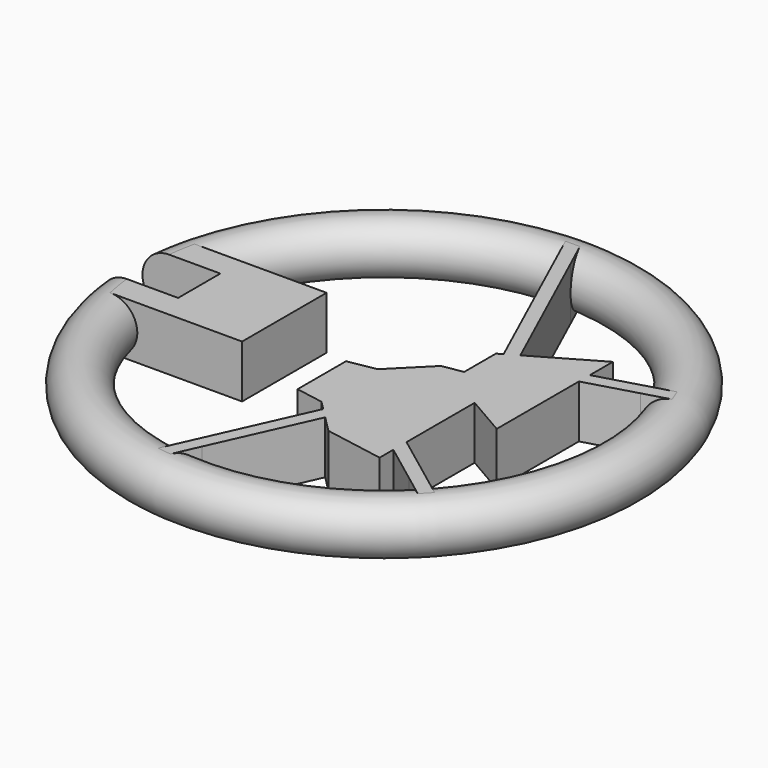
from build123d import *

# Parameters (mm, degrees)
F0_R     = 2
F3_DEPTH = 2
F4_W     = 4
F4_H     = 4
F5_DEPTH = 4
F7_DEPTH = 4


with BuildPart() as f1:
    # F0 (on Front) → F1 (revolve)
    with BuildSketch(Plane.XZ):
        Circle(F0_R)
    revolve(axis=Axis((18, 0, 5.2202073857), (0, 0, 1)))

    # F2 (on Top) → F3 (join, symmetric)
    with BuildSketch(Plane.XY):
        with BuildLine():
            Line((10.4453235101, 4), (4, 4))
            Line((4, 4), (0.4453235101, 4))
            Line((0.4453235101, 4), (0.363673852, 3.6))
            ThreePointArc((0.363673852, 3.6), (0, 0), (0.363673852, -3.6))
            Line((0.363673852, -3.6), (0.4453235101, -4))
            Line((0.4453235101, -4), (10.4453235101, -4))
            Line((10.4453235101, -4), (10.4453235101, 4))
        make_face()
    extrude(amount=F3_DEPTH, both=True)

    # F4 (on Right) → F5 (cut, symmetric)
    with BuildSketch(Plane.YZ):
        Rectangle(F4_W, F4_H)
    extrude(amount=F5_DEPTH, both=True, mode=Mode.SUBTRACT)

    # F6 (on face) → F7 (join)
    with BuildSketch(Plane(origin=(0, 0, -2), x_dir=(1, 0, 0), z_dir=(0, 0, -1))):
        Polygon((30.7324446246, 12.7233978906), (29.1160926592, 11.5079313515), (26.0906579147, 9.2328608367), (26.0906579147, 7.9816710204), (29.8187045722, 10.7850925928), (31.4236053794, 11.9919480744), align=None)
        Polygon((15.1005091852, 17.7649360543), (15.9518629805, 15.8683690009), (19.5939930321, 7.754769346), (20.3505238076, 8.5113001215), (17.0028673853, 15.9688987269), (16.1346274654, 17.9030831229), align=None)
        Polygon((20.3505238076, 8.5113001215), (19.5939930321, 7.754769346), (18.9238963508, 7.0846726646), (16.8207798432, 6.7138364807), (16.8207798432, 2.1238357754), (18.9238963508, 1.7529995916), (21.5753789228, -0.8984829805), (23.1358530021, -1.1736366633), (23.1358530021, -0.1736366633), (26.0906579147, 1.5323207483), (26.0906579147, 7.9816710204), (26.0906579147, 9.2328608367), (26.0906579147, 10.5323207483), (21.5753789228, 9.7361552366), align=None)
        Polygon((23.1358530021, -4.1736366633), (23.5335002602, -4.4032184148), (24.4035697655, -4.9055532779), (29.1980308286, -7.6736366633), (29.1980308286, -5.494910758), (29.1980308286, -4.4542266156), (29.1980308286, 3.3263633367), (26.0906579147, 1.5323207483), (26.0906579147, -1.6946484922), (23.1358530021, -1.1736366633), align=None)
        Polygon((23.1358530021, -0.1736366633), (23.1358530021, -1.1736366633), (26.0906579147, -1.6946484922), (26.0906579147, 1.5323207483), align=None)
        Polygon((29.1980308286, -4.4542266156), (29.1980308286, -5.494910758), (32.6276828977, -6.4831237105), (34.5655466717, -7.0414958261), (34.9325148067, -6.1065491336), (33.0060421318, -5.5514592261), align=None)
        Polygon((23.5335002602, -4.4032184148), (18.2559188118, -15.9979531679), (17.3499899536, -17.9882596974), (18.4458776657, -17.9944767389), (19.380878199, -15.9403003547), (24.4035697655, -4.9055532779), align=None)
    extrude(amount=-F7_DEPTH)


solid = f1.part
